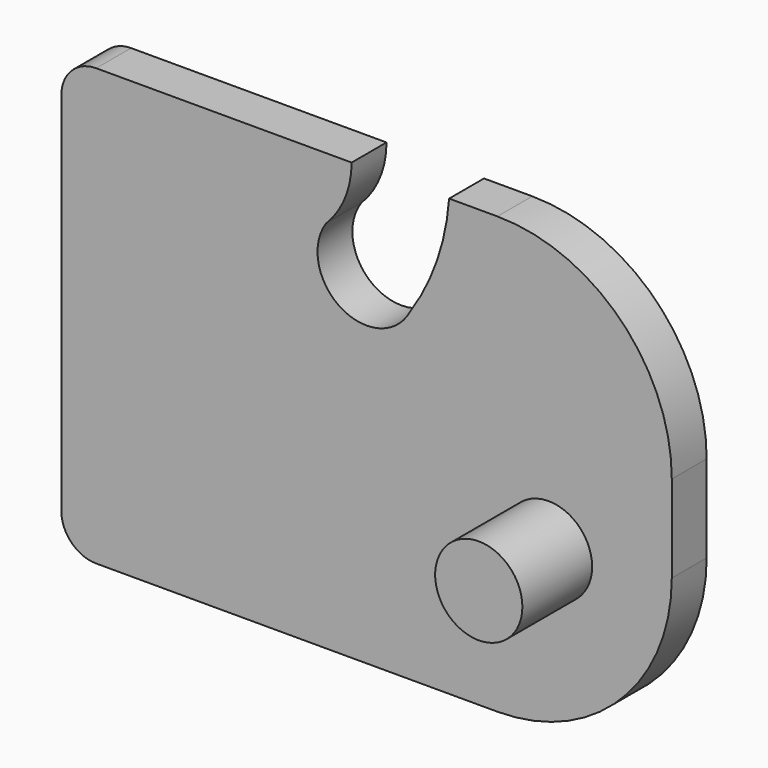
from build123d import *

# Parameters (mm, degrees)
F0_R     = 6.35
F1_DEPTH = 6.35
F2_R     = 25.4
F3_R     = 5.08
F4_DEPTH = 19.05


with BuildPart() as f1:
    # F0 (on Front) → F1 (new body)
    with BuildSketch(Plane.XZ):
        with BuildLine():
            Line((-44.45, -31.75), (44.45, -31.75))
            Line((44.45, -31.75), (44.45, 31.75))
            Line((44.45, 31.75), (12.022284, 31.75))
            ThreePointArc((12.022284, 31.75), (10.258949, 23.22823), (6.357251, 15.449627))
            ThreePointArc((6.357251, 15.449627), (-3.659439, 12.571452), (-5.888707, 22.752234))
            ThreePointArc((-5.888707, 22.752234), (-3.139666, 26.882916), (-2.174649, 31.75))
            Line((-2.174649, 31.75), (-44.45, 31.75))
            Line((-44.45, 31.75), (-44.45, -31.75))
        make_face()
        with Locations((26.500253, -8.66654)):
            Circle(F0_R, mode=Mode.SUBTRACT)
        with Locations((26.500253, -8.66654)):
            Circle(F0_R)
    extrude(amount=F1_DEPTH)

    # F2
    f2_edges = [f1.edges().sort_by_distance(p)[0] for p in [
        (44.45, -3.175, -31.75),
        (44.45, -3.175, 31.75),
    ]]
    fillet(f2_edges, radius=F2_R)

    # F3
    f3_edges = [f1.edges().sort_by_distance(p)[0] for p in [
        (-44.45, -3.175, 31.75),
        (-44.45, -3.175, -31.75),
    ]]
    fillet(f3_edges, radius=F3_R)

    # F0 (on Front) → F4 (join)
    with BuildSketch(Plane.XZ):
        with Locations((26.500253, -8.66654)):
            Circle(F0_R)
    extrude(amount=F4_DEPTH)


solid = f1.part
